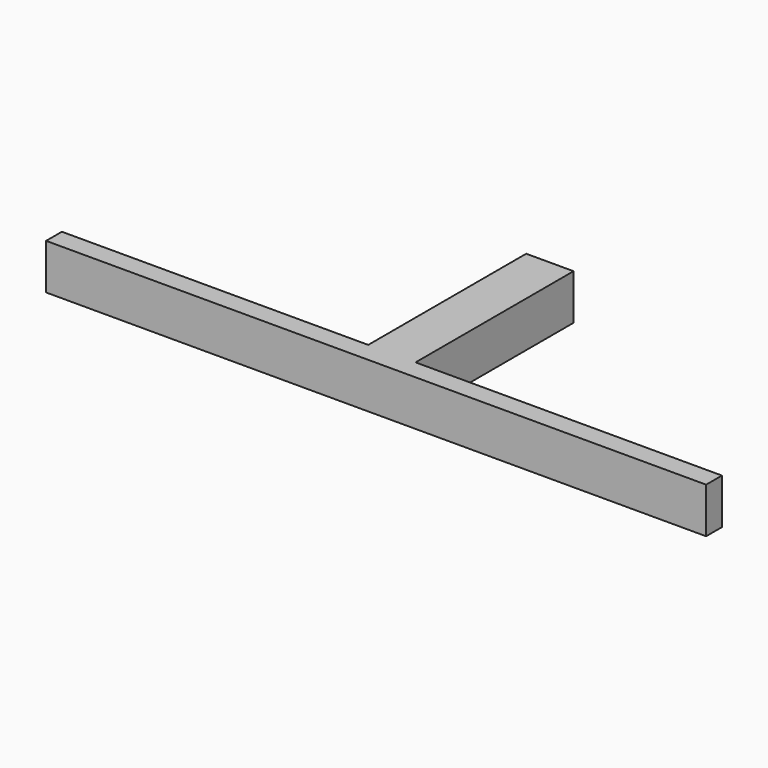
from build123d import *

# Parameters (mm, degrees)
F0_W     = 6.0890410095
F0_H     = 5.8454792015
F1_DEPTH = 25.4
F2_W     = 6.0890410095
F2_H     = 5.8454792015
F2_W_2   = 39.4056616351
F3_DEPTH = 2.54


with BuildPart() as f1:
    # F0 (on Front) → F1 (new body)
    with BuildSketch(Plane.XZ):
        Rectangle(F0_W, F0_H)
    extrude(amount=F1_DEPTH)

    # F2 (on face) → F3 (join)
    with BuildSketch(Plane.XZ.offset(25.4)):
        Rectangle(F2_W, F2_H)
        with Locations((22.7473513223, 0)):
            Rectangle(F2_W_2, F2_H)
        with Locations((-22.7473513223, 0)):
            Rectangle(F2_W_2, F2_H)
    extrude(amount=F3_DEPTH)


solid = f1.part
